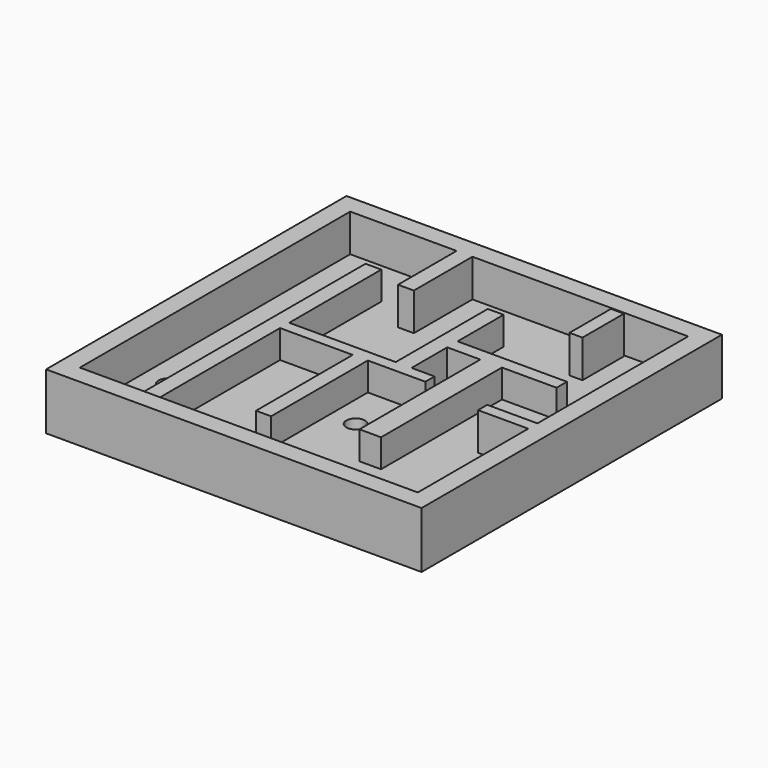
from build123d import *

# Parameters (mm, degrees)
F0_W      = 50.8
F0_H      = 50.8
F1_DEPTH  = 7.62
F2_T      = -2.54
F3_W      = 2.044051
F3_H      = 16.352408
F4_DEPTH  = 6.35
F5_W      = 2.141385
F5_H      = 10.122921
F5_W_2    = 6.813503
F5_H_2    = 1.557372
F6_DEPTH  = 7.62
F7_W      = 1.752042
F7_H      = 7.008177
F8_DEPTH  = 7.62
F9_R      = 1.27
F10_DEPTH = 25.4
F11_R     = 1.27
F12_DEPTH = 25.4


with BuildPart() as f1:
    # F0 (on Top) → F1 (new body)
    with BuildSketch(Plane.XY):
        with Locations((25.4, 25.4)):
            Rectangle(F0_W, F0_H)
    extrude(amount=F1_DEPTH)

    # F2
    f2_openings = [f1.faces().sort_by_distance(p)[0] for p in [
        (25.4, 25.4, 7.62),
    ]]
    offset(amount=F2_T, openings=f2_openings)

    # F3 (on Top) → F4 (join)
    with BuildSketch(Plane.XY):
        Polygon((9.733576, 41.854382), (9.733576, 2.725402), (11.874964, 2.725402), (11.874964, 24.723284), (11.874964, 26.280658), (11.874964, 41.854382), align=None)
        Polygon((11.874964, 26.280658), (11.874964, 24.723284), (21.705878, 24.723284), (23.749929, 24.723284), (31.536791, 24.723284), (31.536791, 26.280658), (28.422045, 26.280658), (26.280656, 26.280658), align=None)
        with Locations((22.727903, 16.54708)):
            Rectangle(F3_W, F3_H)
        Polygon((26.280656, 41.854382), (26.280656, 26.280658), (28.422045, 26.280658), (28.422045, 32.315474), (28.422045, 34.06752), (28.422045, 41.854382), align=None)
        Polygon((28.422045, 34.06752), (28.422045, 32.315474), (32.899488, 32.315474), (35.819563, 32.315474), (43.217082, 32.315474), (43.217082, 34.06752), align=None)
        Polygon((35.819563, 32.315474), (32.899488, 32.315474), (32.899488, 11.874964), (35.819563, 11.874964), (35.819563, 22.095219), (35.819563, 24.723284), align=None)
    extrude(amount=F4_DEPTH)

    # F5 (on Top) → F6 (join)
    with BuildSketch(Plane.XY):
        with Locations((18.007117, 43.411752)):
            Rectangle(F5_W, F5_H)
        with Locations((44.871788, 21.997884)):
            Rectangle(F5_W_2, F5_H_2)
    extrude(amount=F6_DEPTH)

    # F7 (on Top) → F8 (join)
    with BuildSketch(Plane.XY):
        with Locations((38.836971, 44.579783)):
            Rectangle(F7_W, F7_H)
    extrude(amount=F8_DEPTH)

    # F9 (on Top) → F10 (cut)
    with BuildSketch(Plane.XY):
        with Locations((5.645474, 7.008175)):
            Circle(F9_R)
        with Locations((6.034818, 13.042993)):
            Circle(F9_R)
        with Locations((44.19044, 42.633064)):
            Circle(F9_R)
    extrude(amount=F10_DEPTH, mode=Mode.SUBTRACT)

    # F11 (on Top) → F12 (cut)
    with BuildSketch(Plane.XY):
        with Locations((27.254015, 18.299123)):
            Circle(F11_R)
    extrude(amount=F12_DEPTH, mode=Mode.SUBTRACT)


solid = f1.part
